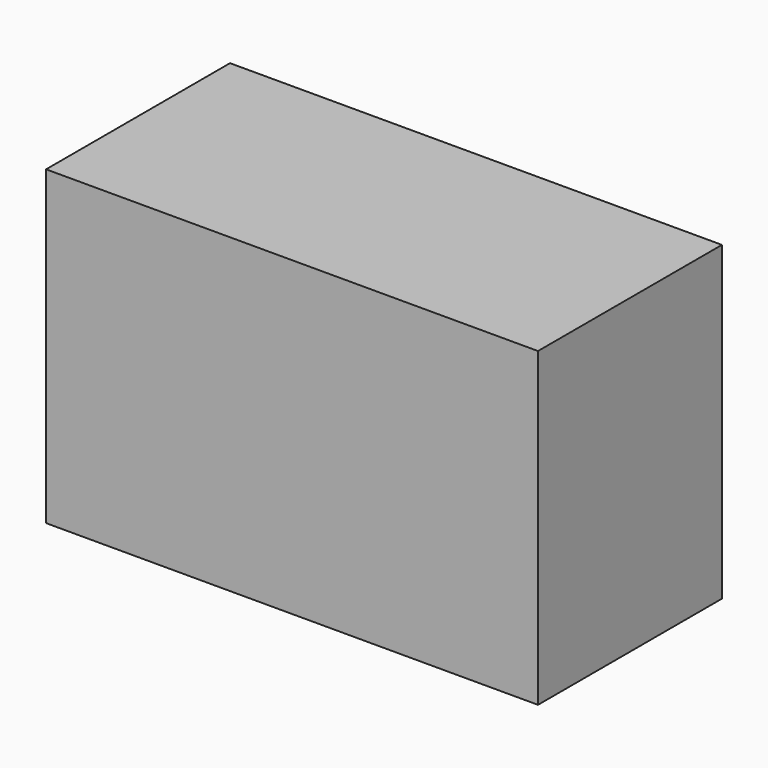
from build123d import *

# Parameters (mm, degrees)
F0_W      = 100
F0_H      = 63.320466
F1_DEPTH  = 25.4
F1_FACE_W = 100
F1_FACE_H = 63.320466
F2_DEPTH  = 21.336


with BuildPart() as f1:
    # F0 (on Front) → F1 (new body)
    with BuildSketch(Plane.XZ):
        with Locations((-7.328019, 2.392822)):
            Rectangle(F0_W, F0_H)
        with Locations((-7.328019, 2.392822)):
            Rectangle(F0_W, F0_H)
    extrude(amount=F1_DEPTH)

    # F1_face (on face) → F2 (join)
    with BuildSketch(Plane(origin=(-7.328019, -25.4, 2.392822), x_dir=(1, 0, 0), z_dir=(0, -1, 0))):
        Rectangle(F1_FACE_W, F1_FACE_H)
    extrude(amount=F2_DEPTH)


solid = f1.part
